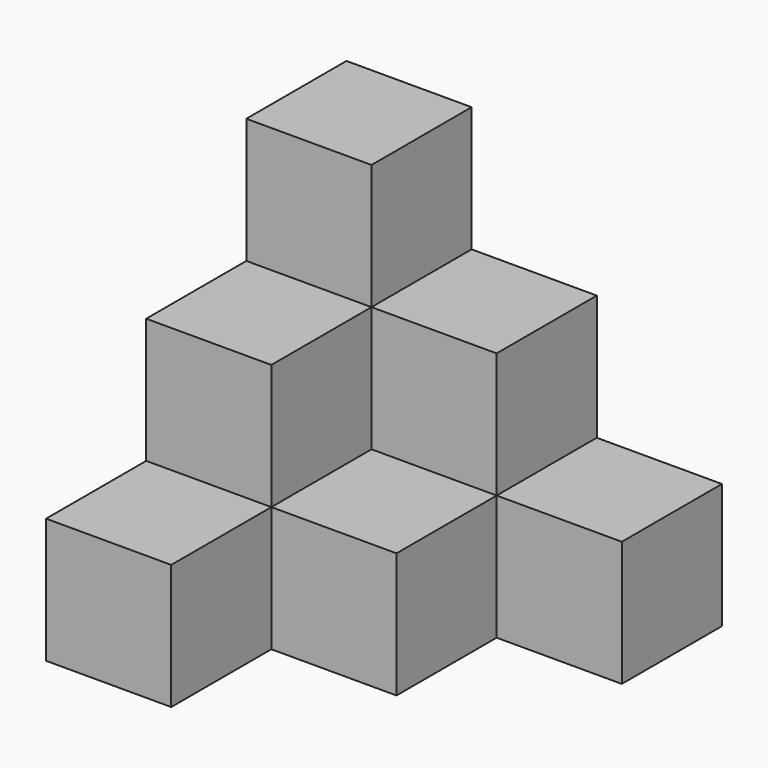
from build123d import *

# Parameters (mm, degrees)
BOX001_W     = 10
BOX001_H     = 10
BOX001_DEPTH = 20
BOX002_W     = 10
BOX002_H     = 10
BOX002_DEPTH = 20
BOX003_W     = 10
BOX003_H     = 10
BOX003_DEPTH = 10
BOX004_W     = 10
BOX004_H     = 10
BOX004_DEPTH = 10
BOX005_W     = 10
BOX005_H     = 10
BOX005_DEPTH = 10
BOX_W        = 10
BOX_H        = 10
BOX_DEPTH    = 30


with BuildPart() as cubo2:
    # Box001 → Box001 (new body)
    with BuildSketch(Plane(origin=(10, 0, 0), x_dir=(1, 0, 0), z_dir=(0, 0, 1))):
        with Locations((5, 5)):
            Rectangle(BOX001_W, BOX001_H)
    extrude(amount=BOX001_DEPTH)


with BuildPart() as cubo3:
    # Box002 → Box002 (new body)
    with BuildSketch(Plane(origin=(0, -10, 0), x_dir=(1, 0, 0), z_dir=(0, 0, 1))):
        with Locations((5, 5)):
            Rectangle(BOX002_W, BOX002_H)
    extrude(amount=BOX002_DEPTH)


with BuildPart() as cubo4:
    # Box003 → Box003 (new body)
    with BuildSketch(Plane(origin=(10, -10, 0), x_dir=(1, 0, 0), z_dir=(0, 0, 1))):
        with Locations((5, 5)):
            Rectangle(BOX003_W, BOX003_H)
    extrude(amount=BOX003_DEPTH)


with BuildPart() as cubo5:
    # Box004 → Box004 (new body)
    with BuildSketch(Plane(origin=(20, 0, 0), x_dir=(1, 0, 0), z_dir=(0, 0, 1))):
        with Locations((5, 5)):
            Rectangle(BOX004_W, BOX004_H)
    extrude(amount=BOX004_DEPTH)


with BuildPart() as cubo6:
    # Box005 → Box005 (new body)
    with BuildSketch(Plane(origin=(0, -20, 0), x_dir=(1, 0, 0), z_dir=(0, 0, 1))):
        with Locations((5, 5)):
            Rectangle(BOX005_W, BOX005_H)
    extrude(amount=BOX005_DEPTH)


with BuildPart() as fusion:
    # Box → Box (new body)
    with BuildSketch(Plane.XY):
        with Locations((5, 5)):
            Rectangle(BOX_W, BOX_H)
    extrude(amount=BOX_DEPTH)

    # Fusion: union cubo2, cubo3, cubo4, cubo5, cubo6
    add(cubo2.part)
    add(cubo3.part)
    add(cubo4.part)
    add(cubo5.part)
    add(cubo6.part)


solid = fusion.part
